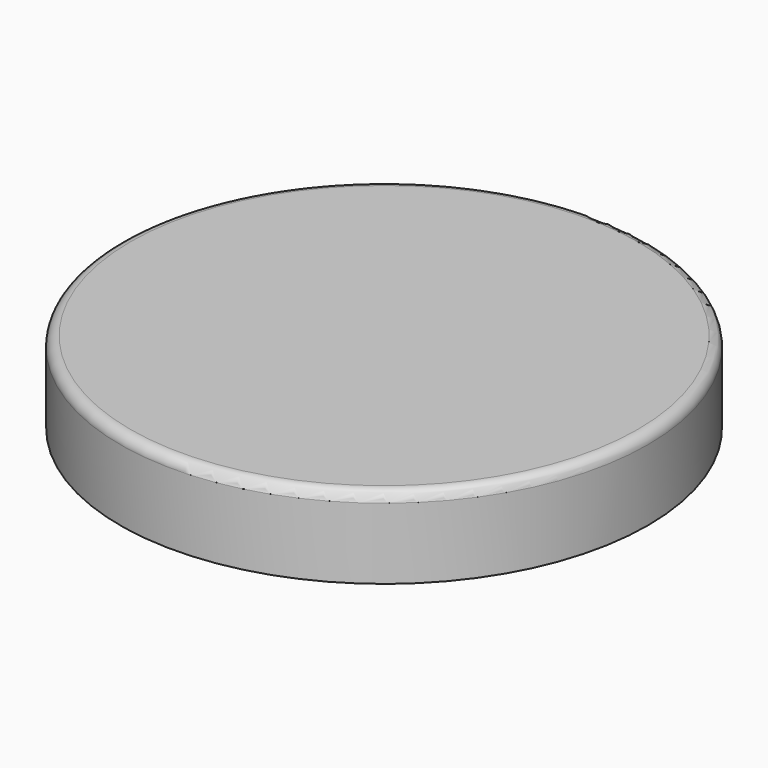
from build123d import *

# Parameters (mm, degrees)
F0_R     = 65
F1_DEPTH = 20
F2_T     = -5
F3_R     = 2.5


with BuildPart() as f1:
    # F0 (on Top) → F1 (new body)
    with BuildSketch(Plane.XY):
        Circle(F0_R)
    extrude(amount=F1_DEPTH)

    # F2
    f2_openings = [f1.faces().sort_by_distance(p)[0] for p in [
        (0, 0, 0),
    ]]
    offset(amount=F2_T, openings=f2_openings)

    # F3
    f3_edges = [f1.edges().sort_by_distance(p)[0] for p in [
        (-65, 0, 20),
    ]]
    fillet(f3_edges, radius=F3_R)


solid = f1.part
